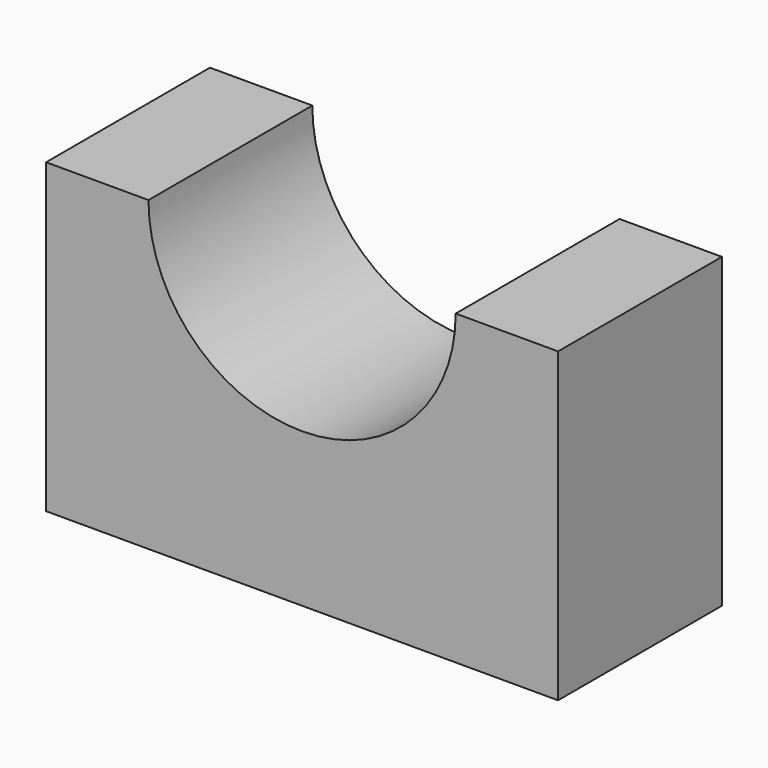
from build123d import *

# Parameters (mm, degrees)
F0_W     = 63.5
F0_H     = 38.1
F1_DEPTH = 25.4
F3_DEPTH = 25.401


with BuildPart() as f1:
    # F0 (on Front) → F1 (new body)
    with BuildSketch(Plane.XZ):
        with Locations((-33.841762, 34.979247)):
            Rectangle(F0_W, F0_H)
    extrude(amount=F1_DEPTH)

    # F2 (on face) → F3 (cut, through all)
    with BuildSketch(Plane.XZ.offset(25.4)):
        with BuildLine():
            ThreePointArc((-52.891762, 54.029247), (-33.841762, 34.979247), (-14.791762, 54.029247))
            Line((-14.791762, 54.029247), (-52.891762, 54.029247))
        make_face()
    extrude(amount=-F3_DEPTH, mode=Mode.SUBTRACT)


solid = f1.part
